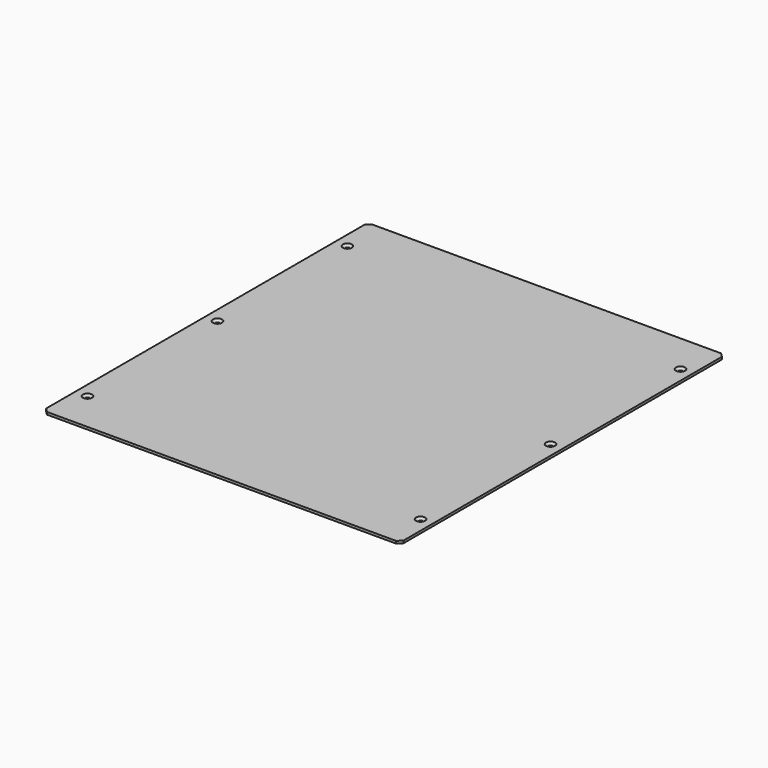
from build123d import *

# Parameters (mm, degrees)
F0_W           = 440
F0_H           = 500
F1_DEPTH       = 3
F2_D           = 5.5
F2_CSINK_D     = 11.2
F2_CSINK_ANGLE = 90
F3_SIZE        = 5


with BuildPart() as f1:
    # F0 (on Top) → F1 (new body)
    with BuildSketch(Plane.XY):
        with Locations((220, 250)):
            Rectangle(F0_W, F0_H)
    extrude(amount=-F1_DEPTH)

    # F2 (through all)
    with Locations(Plane.XY):
        with Locations((425, 50), (425, 250), (425, 450), (15, 450), (15, 250), (15, 50)):
            CounterSinkHole(F2_D / 2, F2_CSINK_D / 2, counter_sink_angle=F2_CSINK_ANGLE)

    # F3
    f3_edges = [f1.edges().sort_by_distance(p)[0] for p in [
        (0, 0, -1.5),
        (440, 0, -1.5),
        (440, 500, -1.5),
        (0, 500, -1.5),
    ]]
    chamfer(f3_edges, length=F3_SIZE)


solid = f1.part
